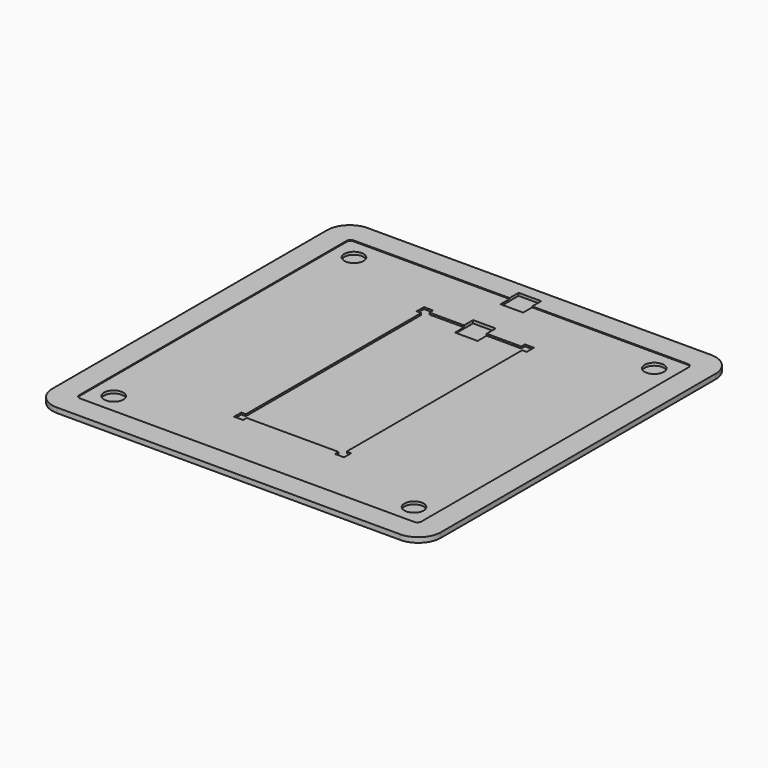
from build123d import *

# Parameters (mm, degrees)
F0_W     = 10
F0_H     = 5
F1_DEPTH = 1
F2_DEPTH = 2.2
F3_DEPTH = 1.8
F4_START = 1
F4_DEPTH = 1.2
F5_START = 0.5
F5_DEPTH = 1.3
F6_R     = 4.25
F7_DEPTH = 1.2


with BuildPart() as f1:
    # F0 (on Top) → F1 (new body)
    with BuildSketch(Plane.XY):
        with BuildLine():
            Line((75.85, 85.85), (-75.85, 85.85))
            ThreePointArc((-75.85, 85.85), (-82.9210678119, 82.9210678119), (-85.85, 75.85))
            Line((-85.85, 75.85), (-85.85, -75.85))
            ThreePointArc((-85.85, -75.85), (-82.9210678119, -82.9210678119), (-75.85, -85.85))
            Line((-75.85, -85.85), (75.85, -85.85))
            ThreePointArc((75.85, -85.85), (82.9210678119, -82.9210678119), (85.85, -75.85))
            Line((85.85, -75.85), (85.85, 75.85))
            ThreePointArc((85.85, 75.85), (82.9210678119, 82.9210678119), (75.85, 85.85))
        make_face()
        with BuildLine():
            Line((5, 75.6), (73.8, 75.6))
            ThreePointArc((73.8, 75.6), (75.0727922061, 75.0727922061), (75.6, 73.8))
            Line((75.6, 73.8), (75.6, -73.8))
            ThreePointArc((75.6, -73.8), (75.0727922061, -75.0727922061), (73.8, -75.6))
            Line((73.8, -75.6), (-73.8, -75.6))
            ThreePointArc((-73.8, -75.6), (-75.0727922061, -75.0727922061), (-75.6, -73.8))
            Line((-75.6, -73.8), (-75.6, 73.8))
            ThreePointArc((-75.6, 73.8), (-75.0727922061, 75.0727922061), (-73.8, 75.6))
            Line((-73.8, 75.6), (-5, 75.6))
            Line((-5, 75.6), (-5, 80.6))
            Line((-5, 80.6), (5, 80.6))
            Line((5, 80.6), (5, 75.6))
        make_face(mode=Mode.SUBTRACT)
        with BuildLine():
            ThreePointArc((75.6, 73.8), (75.0727922061, 75.0727922061), (73.8, 75.6))
            Line((73.8, 75.6), (5, 75.6))
            Line((5, 75.6), (5, 70.6))
            Line((5, 70.6), (-5, 70.6))
            Line((-5, 70.6), (-5, 75.6))
            Line((-5, 75.6), (-73.8, 75.6))
            ThreePointArc((-73.8, 75.6), (-75.0727922061, 75.0727922061), (-75.6, 73.8))
            Line((-75.6, 73.8), (-75.6, -73.8))
            ThreePointArc((-75.6, -73.8), (-75.0727922061, -75.0727922061), (-73.8, -75.6))
            Line((-73.8, -75.6), (73.8, -75.6))
            ThreePointArc((73.8, -75.6), (75.0727922061, -75.0727922061), (75.6, -73.8))
            Line((75.6, -73.8), (75.6, 73.8))
        make_face()
        Polygon((-20.3, 52.45), (-20.3, 50.45), (-5, 50.45), (-5, 55.45), (5, 55.45), (5, 50.45), (20.3, 50.45), (20.3, 52.45), (24.3, 52.45), (24.3, 48.45), (22.3, 48.45), (22.3, -48.45), (24.3, -48.45), (24.3, -52.45), (20.3, -52.45), (20.3, -50.45), (-20.3, -50.45), (-20.3, -52.45), (-24.3, -52.45), (-24.3, -48.45), (-22.3, -48.45), (-22.3, 48.45), (-24.3, 48.45), (-24.3, 52.45), align=None, mode=Mode.SUBTRACT)
        Polygon((-5, 50.45), (-20.3, 50.45), (-20.3, 52.45), (-24.3, 52.45), (-24.3, 48.45), (-22.3, 48.45), (-22.3, -48.45), (-24.3, -48.45), (-24.3, -52.45), (-20.3, -52.45), (-20.3, -50.45), (20.3, -50.45), (20.3, -52.45), (24.3, -52.45), (24.3, -48.45), (22.3, -48.45), (22.3, 48.45), (24.3, 48.45), (24.3, 52.45), (20.3, 52.45), (20.3, 50.45), (5, 50.45), (5, 45.45), (-5, 45.45), align=None)
        with Locations((0, 78.1)):
            Rectangle(F0_W, F0_H)
        with Locations((0, 52.95)):
            Rectangle(F0_W, F0_H)
        with Locations((0, 73.1)):
            Rectangle(F0_W, F0_H)
        with Locations((0, 47.95)):
            Rectangle(F0_W, F0_H)
    extrude(amount=F1_DEPTH)

    # F0 (on Top) → F2 (join)
    with BuildSketch(Plane.XY):
        with BuildLine():
            Line((75.85, 85.85), (-75.85, 85.85))
            ThreePointArc((-75.85, 85.85), (-82.9210678119, 82.9210678119), (-85.85, 75.85))
            Line((-85.85, 75.85), (-85.85, -75.85))
            ThreePointArc((-85.85, -75.85), (-82.9210678119, -82.9210678119), (-75.85, -85.85))
            Line((-75.85, -85.85), (75.85, -85.85))
            ThreePointArc((75.85, -85.85), (82.9210678119, -82.9210678119), (85.85, -75.85))
            Line((85.85, -75.85), (85.85, 75.85))
            ThreePointArc((85.85, 75.85), (82.9210678119, 82.9210678119), (75.85, 85.85))
        make_face()
        with BuildLine():
            Line((5, 75.6), (73.8, 75.6))
            ThreePointArc((73.8, 75.6), (75.0727922061, 75.0727922061), (75.6, 73.8))
            Line((75.6, 73.8), (75.6, -73.8))
            ThreePointArc((75.6, -73.8), (75.0727922061, -75.0727922061), (73.8, -75.6))
            Line((73.8, -75.6), (-73.8, -75.6))
            ThreePointArc((-73.8, -75.6), (-75.0727922061, -75.0727922061), (-75.6, -73.8))
            Line((-75.6, -73.8), (-75.6, 73.8))
            ThreePointArc((-75.6, 73.8), (-75.0727922061, 75.0727922061), (-73.8, 75.6))
            Line((-73.8, 75.6), (-5, 75.6))
            Line((-5, 75.6), (-5, 80.6))
            Line((-5, 80.6), (5, 80.6))
            Line((5, 80.6), (5, 75.6))
        make_face(mode=Mode.SUBTRACT)
        with Locations((0, 78.1)):
            Rectangle(F0_W, F0_H)
    extrude(amount=F2_DEPTH)

    # F0 (on Top) → F3 (join)
    with BuildSketch(Plane.XY):
        with BuildLine():
            ThreePointArc((75.6, 73.8), (75.0727922061, 75.0727922061), (73.8, 75.6))
            Line((73.8, 75.6), (5, 75.6))
            Line((5, 75.6), (5, 70.6))
            Line((5, 70.6), (-5, 70.6))
            Line((-5, 70.6), (-5, 75.6))
            Line((-5, 75.6), (-73.8, 75.6))
            ThreePointArc((-73.8, 75.6), (-75.0727922061, 75.0727922061), (-75.6, 73.8))
            Line((-75.6, 73.8), (-75.6, -73.8))
            ThreePointArc((-75.6, -73.8), (-75.0727922061, -75.0727922061), (-73.8, -75.6))
            Line((-73.8, -75.6), (73.8, -75.6))
            ThreePointArc((73.8, -75.6), (75.0727922061, -75.0727922061), (75.6, -73.8))
            Line((75.6, -73.8), (75.6, 73.8))
        make_face()
        Polygon((-20.3, 52.45), (-20.3, 50.45), (-5, 50.45), (-5, 55.45), (5, 55.45), (5, 50.45), (20.3, 50.45), (20.3, 52.45), (24.3, 52.45), (24.3, 48.45), (22.3, 48.45), (22.3, -48.45), (24.3, -48.45), (24.3, -52.45), (20.3, -52.45), (20.3, -50.45), (-20.3, -50.45), (-20.3, -52.45), (-24.3, -52.45), (-24.3, -48.45), (-22.3, -48.45), (-22.3, 48.45), (-24.3, 48.45), (-24.3, 52.45), align=None, mode=Mode.SUBTRACT)
        with Locations((0, 73.1)):
            Rectangle(F0_W, F0_H)
        with Locations((0, 52.95)):
            Rectangle(F0_W, F0_H)
    extrude(amount=F3_DEPTH)

    # F0 (on Top) → F4 (cut)
    with BuildSketch(Plane.XY.offset(F4_START)):
        with Locations((0, 78.1)):
            Rectangle(F0_W, F0_H)
        with Locations((0, 73.1)):
            Rectangle(F0_W, F0_H)
    extrude(amount=F4_DEPTH, mode=Mode.SUBTRACT)

    # F0 (on Top) → F5 (cut)
    with BuildSketch(Plane.XY.offset(F5_START)):
        with Locations((0, 52.95)):
            Rectangle(F0_W, F0_H)
        with Locations((0, 47.95)):
            Rectangle(F0_W, F0_H)
    extrude(amount=F5_DEPTH, mode=Mode.SUBTRACT)

    # F6 (on face) → F7 (cut)
    with BuildSketch(Plane.XY.offset(1.8)):
        with Locations((-66.35, 66.35)):
            Circle(F6_R)
        with Locations((66.35, 66.35)):
            Circle(F6_R)
        with Locations((66.35, -66.35)):
            Circle(F6_R)
        with Locations((-66.35, -66.35)):
            Circle(F6_R)
    extrude(amount=-F7_DEPTH, mode=Mode.SUBTRACT)


solid = f1.part
